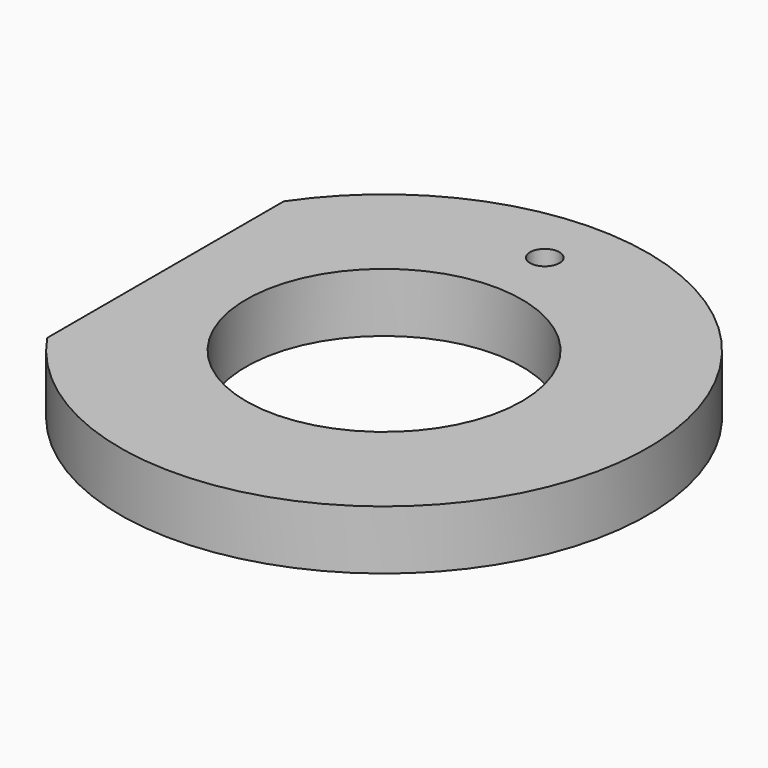
from build123d import *

# Parameters (mm, degrees)
F0_R     = 7
F1_DEPTH = 3
F2_R     = 0.75
F3_DEPTH = 3.001


with BuildPart() as f1:
    # F0 (on Top) → F1 (new body)
    with BuildSketch(Plane.XY):
        with BuildLine():
            Line((-11.1, 7.506664), (-11.1, -7.506664))
            ThreePointArc((-11.1, -7.506664), (13.4, 0), (-11.1, 7.506664))
        make_face()
        Circle(F0_R, mode=Mode.SUBTRACT)
    extrude(amount=F1_DEPTH)

    # F2 (on face) → F3 (cut, through all)
    with BuildSketch(Plane.XY.offset(3)):
        with Locations((0, 10.2)):
            Circle(F2_R)
    extrude(amount=-F3_DEPTH, mode=Mode.SUBTRACT)


solid = f1.part
